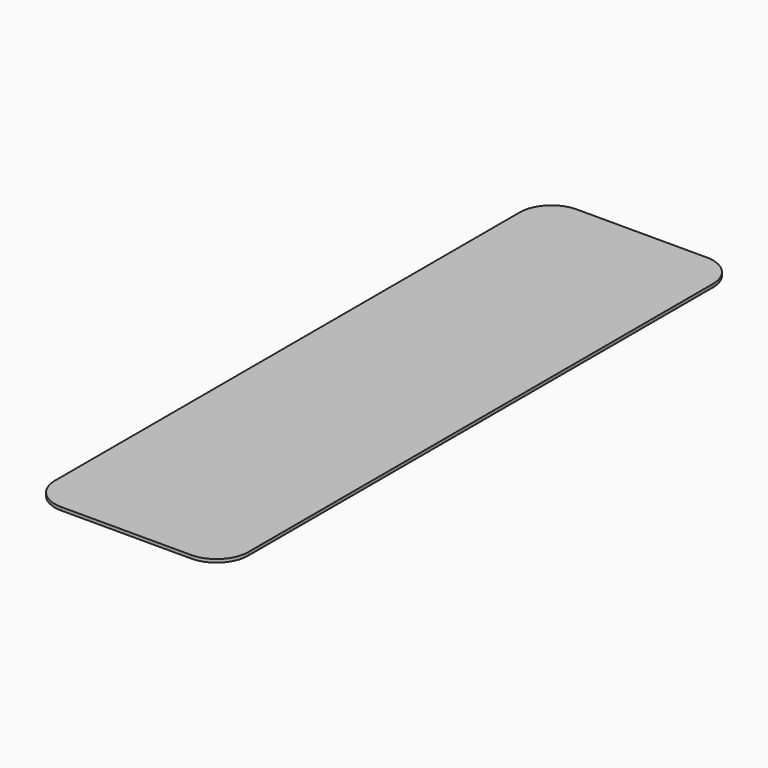
from build123d import *

# Parameters (mm, degrees)
F0_W     = 30.48
F0_H     = 101.6
F1_DEPTH = 0.5
F2_R     = 5
F4_R     = 12.6
F5_DEPTH = 0.5


with BuildPart() as f1:
    # F0 (on Top) → F1 (new body)
    with BuildSketch(Plane.XY):
        Rectangle(F0_W, F0_H)
    extrude(amount=F1_DEPTH)

    # F2
    f2_edges = [f1.edges().sort_by_distance(p)[0] for p in [
        (15.24, -50.8, 0.25),
        (-15.24, -50.8, 0.25),
        (-15.24, 50.8, 0.25),
        (15.24, 50.8, 0.25),
    ]]
    fillet(f2_edges, radius=F2_R)


with BuildPart() as f5:
    # F4 (on offset) → F5 (new body)
    with BuildSketch(Plane.XY.offset(25.5)):
        Circle(F4_R)
    extrude(amount=F5_DEPTH)


solid = f1.part
